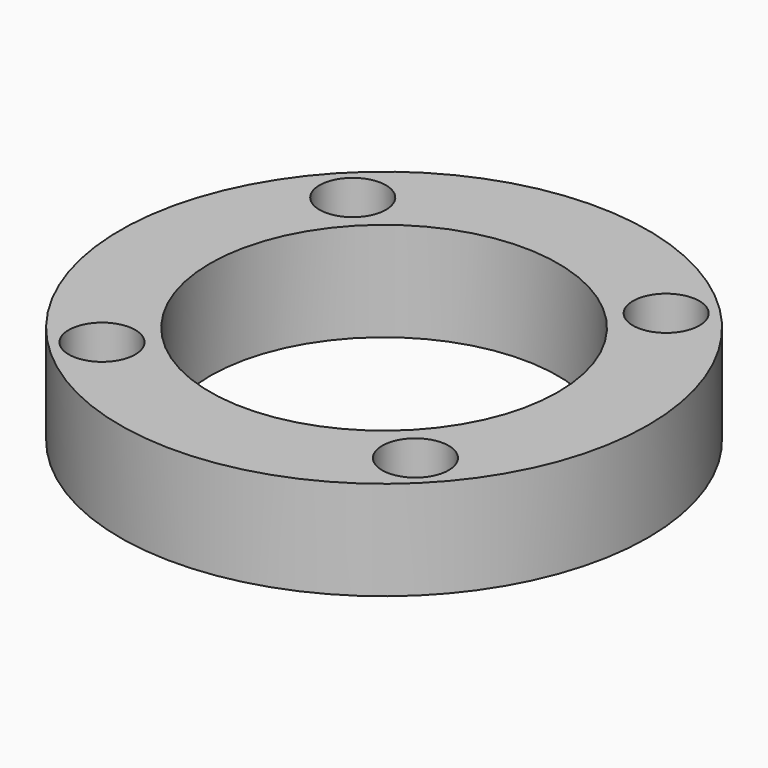
from build123d import *

# Parameters (mm, degrees)
F0_R     = 50.8
F0_R_2   = 6.4
F0_R_3   = 33.5
F1_DEPTH = 19.05
F2_W     = 25.5
F2_H     = 2.77
F3_DEPTH = 12.5


with BuildPart() as f1:
    # F0 (on Top) → F1 (new body)
    with BuildSketch(Plane.XY):
        Circle(F0_R)
        with Locations((-30.158104, -30.158104)):
            Circle(F0_R_2, mode=Mode.SUBTRACT)
        Circle(F0_R_3, mode=Mode.SUBTRACT)
        with Locations((30.158104, -30.158104)):
            Circle(F0_R_2, mode=Mode.SUBTRACT)
        with Locations((-30.158104, 30.158104)):
            Circle(F0_R_2, mode=Mode.SUBTRACT)
        with Locations((30.158104, 30.158104)):
            Circle(F0_R_2, mode=Mode.SUBTRACT)
    extrude(amount=F1_DEPTH)

    # F2 (on face) → F3 (cut)
    with BuildSketch(Plane(origin=(0, 0, 0), x_dir=(1, 0, 0), z_dir=(0, 0, -1))):
        with Locations((0, -40.885)):
            Rectangle(F2_W, F2_H)
        with Locations((0, 40.885)):
            Rectangle(F2_W, F2_H)
    extrude(amount=-F3_DEPTH, mode=Mode.SUBTRACT)


solid = f1.part
